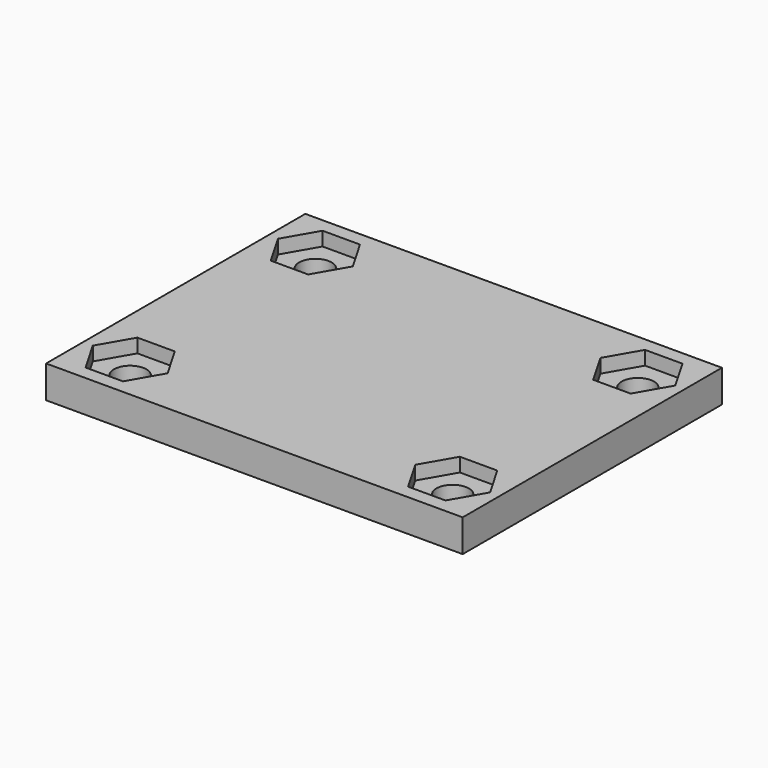
from build123d import *

# Parameters (mm, degrees)
F1_W     = 45
F1_H     = 35
F1_R     = 1.75
F2_DEPTH = 3.5
F3_R     = 1.75
F4_DEPTH = 1.5


with BuildPart() as f2:
    # F1 (on face) → F2 (new body)
    with BuildSketch(Plane.XY):
        with Locations((-32.283769, -12.20101)):
            Rectangle(F1_W, F1_H)
        with Locations((-49.70004, -24.70101)):
            Circle(F1_R, mode=Mode.SUBTRACT)
        with Locations((-14.867499, -24.70101)):
            Circle(F1_R, mode=Mode.SUBTRACT)
        with Locations((-49.70004, 0.29899)):
            Circle(F1_R, mode=Mode.SUBTRACT)
        with Locations((-14.867499, 0.29899)):
            Circle(F1_R, mode=Mode.SUBTRACT)
    extrude(amount=F2_DEPTH)

    # F3 (on face) → F4 (cut)
    with BuildSketch(Plane.XY.offset(3.5)):
        Polygon((-45.658588, -24.70101), (-47.679314, -21.20101), (-51.720766, -21.20101), (-53.741492, -24.70101), (-51.720766, -28.20101), (-47.679314, -28.20101), align=None)
        with Locations((-49.70004, -24.70101)):
            Circle(F3_R, mode=Mode.SUBTRACT)
        Polygon((-45.658588, 0.29899), (-47.679314, 3.79899), (-51.720766, 3.79899), (-53.741492, 0.29899), (-51.720766, -3.20101), (-47.679314, -3.20101), align=None)
        with Locations((-49.70004, 0.29899)):
            Circle(F3_R, mode=Mode.SUBTRACT)
        Polygon((-16.888224, 3.79899), (-18.90895, 0.29899), (-16.888224, -3.20101), (-12.846773, -3.20101), (-10.826047, 0.29899), (-12.846773, 3.79899), align=None)
        with Locations((-14.867499, 0.29899)):
            Circle(F3_R, mode=Mode.SUBTRACT)
        Polygon((-12.846773, -21.20101), (-16.888224, -21.20101), (-18.90895, -24.70101), (-16.888224, -28.20101), (-12.846773, -28.20101), (-10.826047, -24.70101), align=None)
        with Locations((-14.867499, -24.70101)):
            Circle(F3_R, mode=Mode.SUBTRACT)
    extrude(amount=-F4_DEPTH, mode=Mode.SUBTRACT)


solid = f2.part
